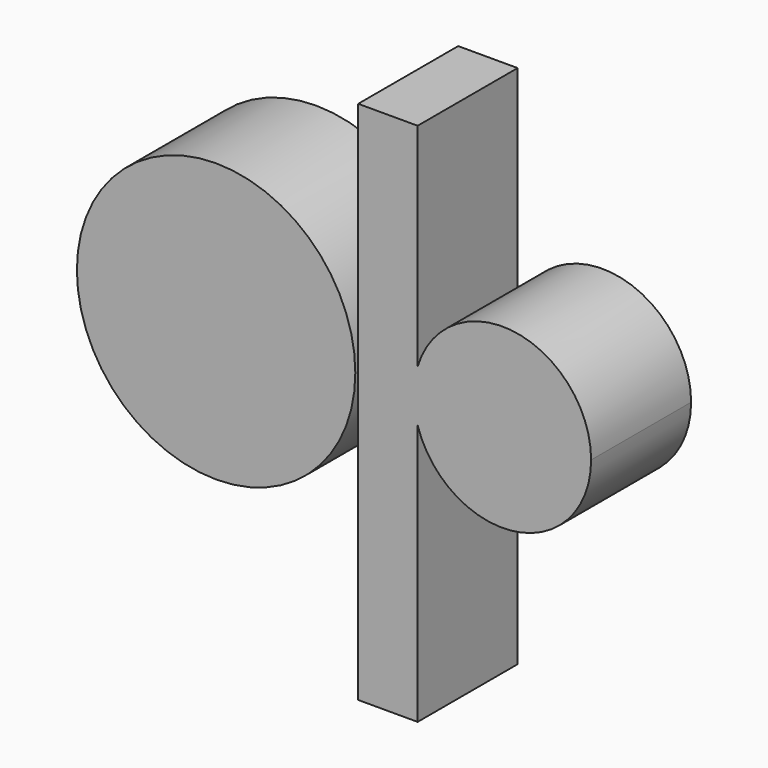
from build123d import *

# Parameters (mm, degrees)
F1_DEPTH = 25.4
F0_R     = 28.2939583949


with BuildPart() as f1:
    # F0 (on Front) → F1 (new body)
    with BuildSketch(Plane.XZ):
        with BuildLine():
            Line((12.0812505484, 48.3250170946), (0, 48.3250170946))
            Line((0, 48.3250170946), (0, -58.3435744047))
            Line((0, -58.3435744047), (12.0812505484, -58.3435744047))
            Line((12.0812505484, -58.3435744047), (12.0812505484, -5.262906618))
            ThreePointArc((12.0812505484, -5.262906618), (11.2957379071, 0), (12.0812505484, 5.262906618))
            Line((12.0812505484, 5.262906618), (12.0812505484, 48.3250170946))
        make_face()
        with BuildLine():
            ThreePointArc((47.3425367626, 0), (31.9797395307, 17.8259396074), (12.0812505484, 5.262906618))
            Line((12.0812505484, 5.262906618), (12.0812505484, -5.262906618))
            ThreePointArc((12.0812505484, -5.262906618), (31.9797395307, -17.8259396074), (47.3425367626, 0))
        make_face()
        with BuildLine():
            Line((12.0812505484, -5.262906618), (12.0812505484, 5.262906618))
            ThreePointArc((12.0812505484, 5.262906618), (11.2957379071, 0), (12.0812505484, -5.262906618))
        make_face()
    extrude(amount=F1_DEPTH)


with BuildPart() as f1b:
    # F0 (on Front) → F1, piece 2 (new body)
    with BuildSketch(Plane.XZ):
        with Locations((-28.8771316409, 0)):
            Circle(F0_R)
    extrude(amount=F1_DEPTH)


solid = Compound([f1.part, f1b.part])
